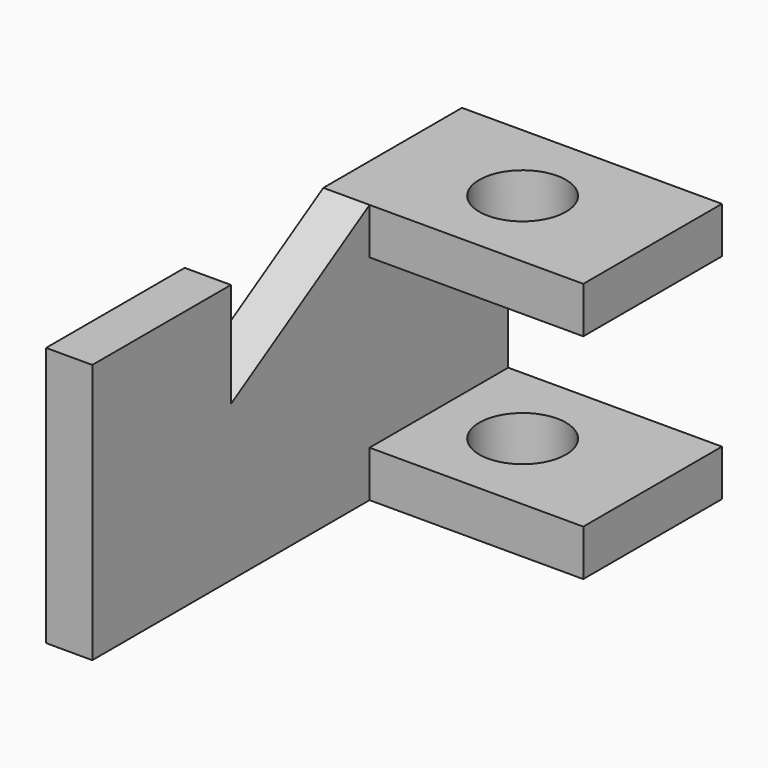
from build123d import *

# Parameters (mm, degrees)
F1_DEPTH = 8
F2_W     = 30
F2_H     = 8
F3_DEPTH = 37
F4_R     = 7.5
F5_DEPTH = 45.001


with BuildPart() as f1:
    # F0 (on Right) → F1 (new body)
    with BuildSketch(Plane.YZ):
        Polygon((0, 45), (0, 0), (90, 0), (90, 45), (60, 45), (30, 26.851851), (30, 45), align=None)
    extrude(amount=F1_DEPTH)

    # F2 (on face) → F3 (join)
    with BuildSketch(Plane.YZ.offset(8)):
        with Locations((75, 41)):
            Rectangle(F2_W, F2_H)
        with Locations((75, 4)):
            Rectangle(F2_W, F2_H)
    extrude(amount=F3_DEPTH)

    # F4 (on face) → F5 (cut, through all)
    with BuildSketch(Plane.XY.offset(45)):
        with Locations((22.5, 75)):
            Circle(F4_R)
    extrude(amount=-F5_DEPTH, mode=Mode.SUBTRACT)


solid = f1.part
